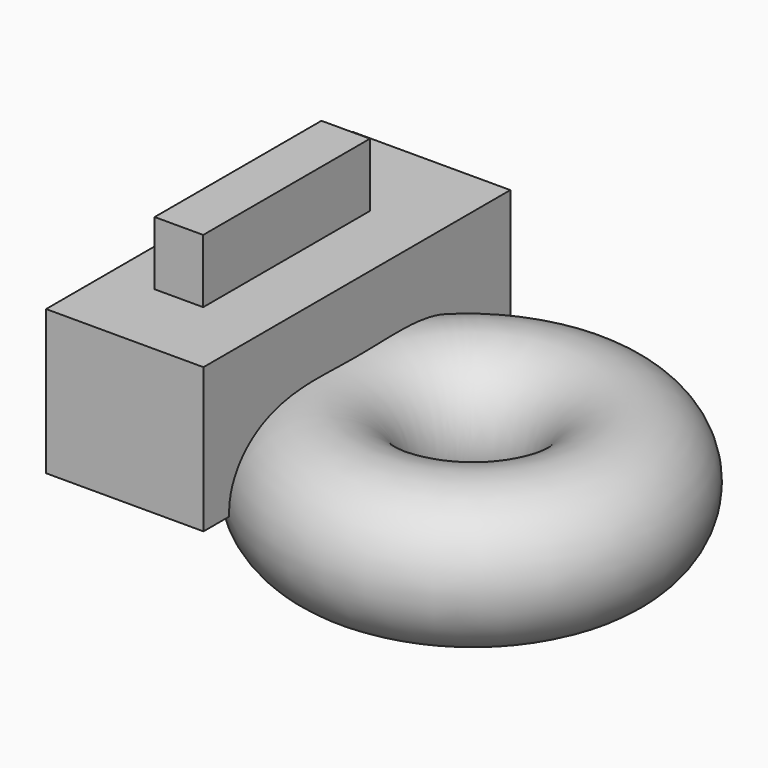
from build123d import *

# Parameters (mm, degrees)
F0_R     = 12.699304
F3_W     = 27.652487
F3_H     = 67.384638
F4_DEPTH = 25.4
F5_W     = 8.52412
F5_H     = 36.622613
F6_DEPTH = 11.176


with BuildPart() as f2:
    # F0 (on Front) → F2 (revolve)
    with BuildSketch(Plane.XZ):
        with Locations((0.033883, 0.343613)):
            Circle(F0_R)
    revolve(axis=Axis((-22.052867, 0, -26.479952), (-0.010936, 0, -0.99994)))

    # F3 (on Top) → F4 (join)
    with BuildSketch(Plane.XY):
        with Locations((-55.423274, -0.157852)):
            Rectangle(F3_W, F3_H)
    extrude(amount=F4_DEPTH)

    # F5 (on face) → F6 (join)
    with BuildSketch(Plane.XY.offset(25.4)):
        with Locations((-57.021674, -1.647932)):
            Rectangle(F5_W, F5_H)
    extrude(amount=F6_DEPTH)


solid = f2.part
